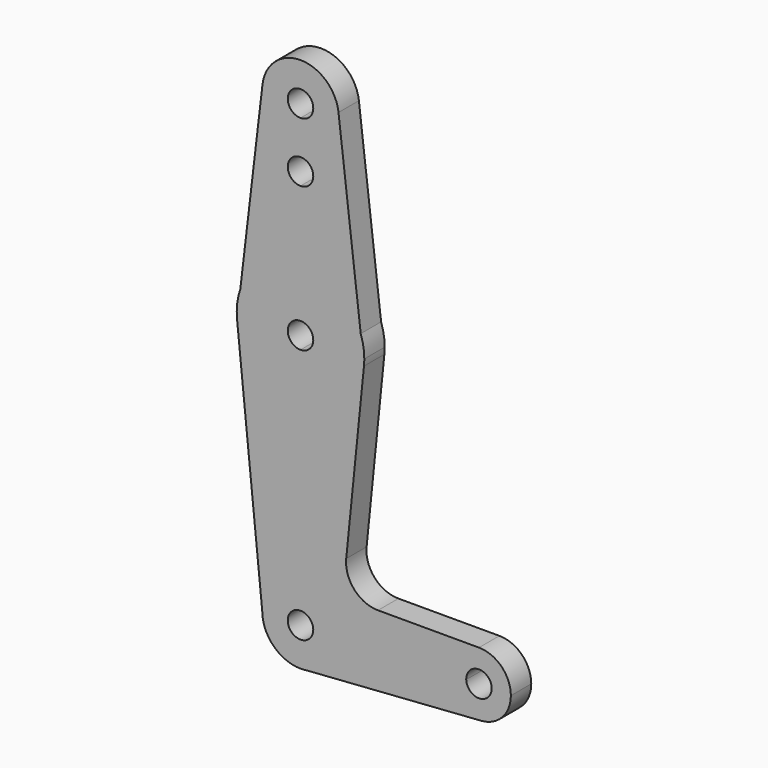
from build123d import *

# Parameters (mm, degrees)
F1_DEPTH = 6.35


with BuildPart() as f1:
    # F0 (on Front) → F1 (new body)
    with BuildSketch(Plane.XZ):
        with BuildLine():
            ThreePointArc((-9.4589602313, 115.4196858236), (-7.120064342, 107.9730490151), (0, 104.775))
            ThreePointArc((0, 104.775), (6.7351920908, 107.5648079092), (9.525, 114.3))
            ThreePointArc((9.525, 114.3), (9.5084757244, 114.8608158331), (9.4589602313, 115.4196858236))
            ThreePointArc((9.4589602313, 115.4196858236), (0, 123.825), (-9.4589602313, 115.4196858236))
        make_face()
        with BuildLine():
            ThreePointArc((3.175, 114.3), (2.2450640303, 112.0549359697), (0, 111.125))
            ThreePointArc((0, 111.125), (-2.2450640303, 116.5450640303), (3.175, 114.3))
        make_face(mode=Mode.SUBTRACT)
        with BuildLine():
            ThreePointArc((9.525, 114.3), (6.7351920908, 107.5648079092), (0, 104.775))
            Line((0, 104.775), (0, 102.5795361876))
            ThreePointArc((0, 102.5795361876), (2.2450640303, 101.6496002179), (3.175, 99.4045361876))
            ThreePointArc((3.175, 99.4045361876), (2.2450640303, 97.1594721574), (0, 96.2295361876))
            Line((0, 96.2295361876), (0, 79.375))
            ThreePointArc((0, 79.375), (9.186503804, 76.4469599852), (14.9842264132, 68.7429556358))
            Line((14.9842264132, 68.7429556358), (9.4589602313, 115.4196858236))
            ThreePointArc((9.4589602313, 115.4196858236), (9.5084757244, 114.8608158331), (9.525, 114.3))
        make_face()
        with BuildLine():
            Line((0, 102.5795361876), (0, 104.775))
            ThreePointArc((0, 104.775), (-7.120064342, 107.9730490151), (-9.4589602313, 115.4196858236))
            Line((-9.4589602313, 115.4196858236), (-14.9842264132, 68.7429556358))
            ThreePointArc((-14.9842264132, 68.7429556358), (-9.186503804, 76.4469599852), (0, 79.375))
            Line((0, 79.375), (0, 96.2295361876))
            ThreePointArc((0, 96.2295361876), (-3.175, 99.4045361876), (0, 102.5795361876))
        make_face()
        with BuildLine():
            Line((-15.7942028036, 61.9003804205), (-14.9842264132, 68.7429556358))
            ThreePointArc((-14.9842264132, 68.7429556358), (-15.7649337188, 65.3661430393), (-15.7942028036, 61.9003804205))
        make_face()
        with BuildLine():
            ThreePointArc((0, 79.375), (-9.186503804, 76.4469599852), (-14.9842264132, 68.7429556358))
            Line((-14.9842264132, 68.7429556358), (-15.7942028036, 61.9003804205))
            ThreePointArc((-15.7942028036, 61.9003804205), (-10.644756084, 51.722700101), (0, 47.625))
            Line((0, 47.625), (0, 60.325))
            ThreePointArc((0, 60.325), (-3.175, 63.5), (0, 66.675))
            Line((0, 66.675), (0, 79.375))
        make_face()
        with BuildLine():
            ThreePointArc((14.9842264132, 68.7429556358), (9.186503804, 76.4469599852), (0, 79.375))
            Line((0, 79.375), (0, 66.675))
            ThreePointArc((0, 66.675), (2.2450640303, 65.7450640303), (3.175, 63.5))
            ThreePointArc((3.175, 63.5), (2.2450640303, 61.2549359697), (0, 60.325))
            Line((0, 60.325), (0, 47.625))
            ThreePointArc((0, 47.625), (10.644756084, 51.722700101), (15.7942028036, 61.9003804205))
            Line((15.7942028036, 61.9003804205), (14.9842264132, 68.7429556358))
        make_face()
        with BuildLine():
            ThreePointArc((15.875, 63.5), (15.6507223365, 66.1590440661), (14.9842264132, 68.7429556358))
            Line((14.9842264132, 68.7429556358), (15.7942028036, 61.9003804205))
            ThreePointArc((15.7942028036, 61.9003804205), (15.8547878338, 62.6991705884), (15.875, 63.5))
        make_face()
        with BuildLine():
            ThreePointArc((0, 47.625), (-10.644756084, 51.722700101), (-15.7942028036, 61.9003804205))
            Line((-15.7942028036, 61.9003804205), (-9.525, 0))
            ThreePointArc((-9.525, 0), (-6.7351920908, 6.7351920908), (0, 9.525))
            Line((0, 9.525), (0, 47.625))
        make_face()
        with BuildLine():
            Line((11.3760026029, 18.2762894854), (15.7942028036, 61.9003804205))
            ThreePointArc((15.7942028036, 61.9003804205), (10.644756084, 51.722700101), (0, 47.625))
            Line((0, 47.625), (0, 9.525))
            ThreePointArc((0, 9.525), (6.6138273378, 6.8544082857), (9.5189234444, 0.3401785714))
            Line((9.5189234444, 0.3401785714), (36.4892065367, 1.3040178571))
            ThreePointArc((36.4892065367, 1.3040178571), (38.7096358356, 7.0990227815), (44.4216427403, 9.525))
            Line((44.4216427403, 9.525), (19.285739367, 9.525))
            ThreePointArc((19.285739367, 9.525), (13.3876675775, 12.1443061531), (11.3760026029, 18.2762894854))
        make_face()
        with BuildLine():
            ThreePointArc((0, 9.525), (-6.7351920908, 6.7351920908), (-9.525, 0))
            ThreePointArc((-9.525, 0), (-6.7351920908, -6.7351920908), (0, -9.525))
            Line((0, -9.525), (1.3462173498, -9.4293861861))
            ThreePointArc((1.3462173498, -9.4293861861), (7.1954272026, -6.241109867), (9.525, 0))
            ThreePointArc((9.525, 0), (9.5234807399, 0.1701164197), (9.5189234444, 0.3401785714))
            Line((9.5189234444, 0.3401785714), (3.1729744815, 0.1133928571))
            ThreePointArc((3.1729744815, 0.1133928571), (3.17449358, 0.0567054732), (3.175, 0))
            ThreePointArc((3.175, 0), (-2.2450640303, -2.2450640303), (0, 3.175))
            Line((0, 3.175), (0, 9.525))
        make_face()
        with BuildLine():
            Line((1.3462173498, -9.4293861861), (0, -9.525))
            ThreePointArc((0, -9.525), (0.6748042594, -9.5010664776), (1.3462173498, -9.4293861861))
        make_face()
        with BuildLine():
            Line((36.4892065367, 1.3040178571), (9.5189234444, 0.3401785714))
            ThreePointArc((9.5189234444, 0.3401785714), (9.5234807399, 0.1701164197), (9.525, 0))
            ThreePointArc((9.525, 0), (7.1954272026, -6.241109867), (1.3462173498, -9.4293861861))
            Line((1.3462173498, -9.4293861861), (44.9839796232, -6.330055398))
            ThreePointArc((44.9839796232, -6.330055398), (39.1160457319, -4.3162739315), (36.4892065367, 1.3040178571))
        make_face()
        with BuildLine():
            ThreePointArc((52.3591427403, 1.5875), (50.034302816, 7.2001600757), (44.4216427403, 9.525))
            ThreePointArc((44.4216427403, 9.525), (38.7096358356, 7.0990227815), (36.4892065367, 1.3040178571))
            ThreePointArc((36.4892065367, 1.3040178571), (39.1160457319, -4.3162739315), (44.9839796232, -6.330055398))
            ThreePointArc((44.9839796232, -6.330055398), (50.2297170881, -3.8226921058), (52.3591427403, 1.5875))
        make_face()
        with BuildLine():
            ThreePointArc((47.5966427403, 1.5875), (44.4783482136, -1.58699358), (41.2486682589, 1.4741071429))
            ThreePointArc((41.2486682589, 1.4741071429), (44.3649372671, 4.76199358), (47.5966427403, 1.5875))
        make_face(mode=Mode.SUBTRACT)
        with BuildLine():
            ThreePointArc((9.5189234444, 0.3401785714), (6.6138273378, 6.8544082857), (0, 9.525))
            Line((0, 9.525), (0, 3.175))
            ThreePointArc((0, 3.175), (2.2046091126, 2.2848027619), (3.1729744815, 0.1133928571))
            Line((3.1729744815, 0.1133928571), (9.5189234444, 0.3401785714))
        make_face()
    extrude(amount=F1_DEPTH)


solid = f1.part
